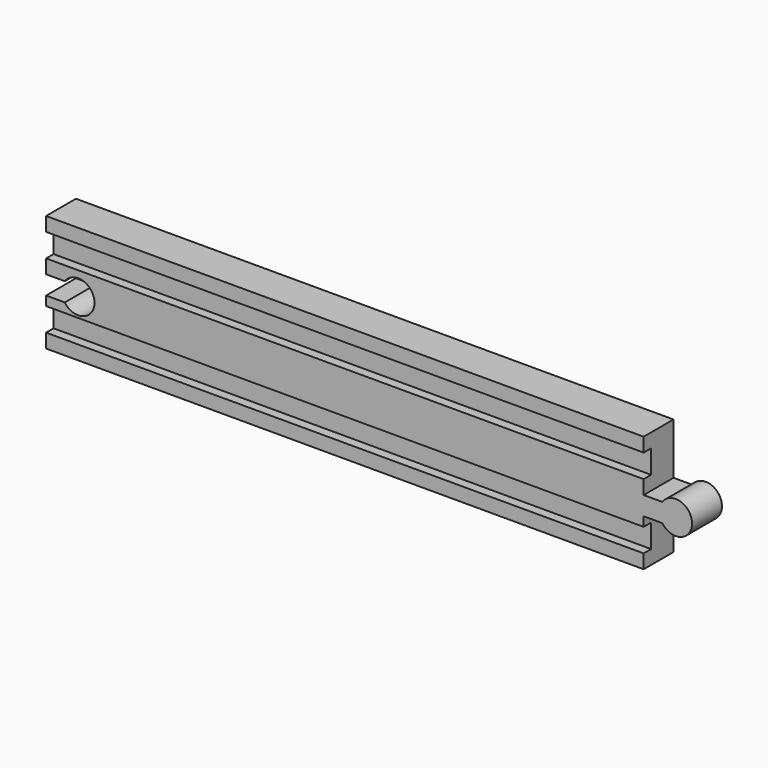
from build123d import *

# Parameters (mm, degrees)
F0_W     = 203.2
F0_H     = 39.6875
F1_DEPTH = 6.35
F3_DEPTH = 6.35
F5_DEPTH = 12.7
F6_W     = 203.2
F6_H     = 7.9375
F7_DEPTH = 3.175
F8_W     = 203.2
F8_H     = 7.9375
F9_DEPTH = 3.175


with BuildPart() as f1:
    # F0 (on Front) → F1 (new body, symmetric)
    with BuildSketch(Plane.XZ):
        Rectangle(F0_W, F0_H)
    extrude(amount=F1_DEPTH, both=True)

    # F2 (on Front) → F3 (join, symmetric)
    with BuildSketch(Plane.XZ):
        with BuildLine():
            Line((107.95, 2.38125), (101.6, 2.38125))
            Line((101.6, 2.38125), (101.6, -3.96875))
            Line((101.6, -3.96875), (107.95, -3.96875))
            ThreePointArc((107.95, -3.96875), (118.0659966007, -0.79375), (107.95, 2.38125))
        make_face()
    extrude(amount=F3_DEPTH, both=True)

    # F4 (on Front) → F5 (cut, symmetric)
    with BuildSketch(Plane.XZ):
        with BuildLine():
            Line((-95.25, 2.38125), (-101.6, 2.38125))
            Line((-101.6, 2.38125), (-101.6, -3.96875))
            Line((-101.6, -3.96875), (-95.25, -3.96875))
            ThreePointArc((-95.25, -3.96875), (-85.1340033993, -0.79375), (-95.25, 2.38125))
        make_face()
    extrude(amount=F5_DEPTH, both=True, mode=Mode.SUBTRACT)

    # F6 (on face) → F7 (cut)
    with BuildSketch(Plane.XZ.offset(6.35)):
        with Locations((0, 11.1125)):
            Rectangle(F6_W, F6_H)
    extrude(amount=-F7_DEPTH, mode=Mode.SUBTRACT)

    # F8 (on face) → F9 (cut)
    with BuildSketch(Plane.XZ.offset(6.35)):
        with Locations((0, -11.1125)):
            Rectangle(F8_W, F8_H)
    extrude(amount=-F9_DEPTH, mode=Mode.SUBTRACT)


solid = f1.part
